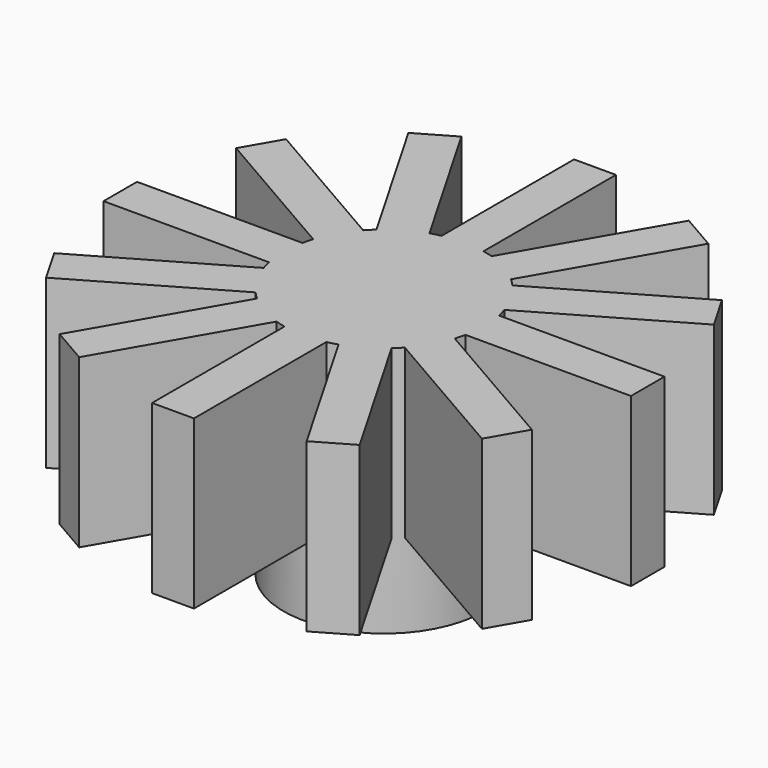
from build123d import *

# Parameters (mm, degrees)
SKETCH_W           = 6.3
SKETCH_H           = 1
PAD_DEPTH          = 4
POLARPATTERN_COUNT = 12
CYLINDER002_R      = 2.4
CYLINDER002_DEPTH  = 6


with BuildPart() as obj1:
    # Sketch → Pad (new body)
    with BuildSketch(Plane.XY):
        with Locations((-3.15, 0)):
            Rectangle(SKETCH_W, SKETCH_H)
    pad = extrude(amount=PAD_DEPTH)

    # PolarPattern: Pad ×12 about axis
    polarpattern_axis = Axis((0, 0, 0), (0, 0, 1))
    for i in range(1, POLARPATTERN_COUNT):
        add(pad.rotate(polarpattern_axis, i * 360 / POLARPATTERN_COUNT))


with BuildPart() as obj1_1:
    # Body placement: moved
    add(obj1.part.moved(Location((0, 0, 2))))


with BuildPart() as obj2:
    # Cylinder002 → Cylinder002 (new body)
    with BuildSketch(Plane.XY):
        Circle(CYLINDER002_R)
    extrude(amount=CYLINDER002_DEPTH)

    # Fusion: union obj1
    add(obj1_1.part)


solid = obj2.part
